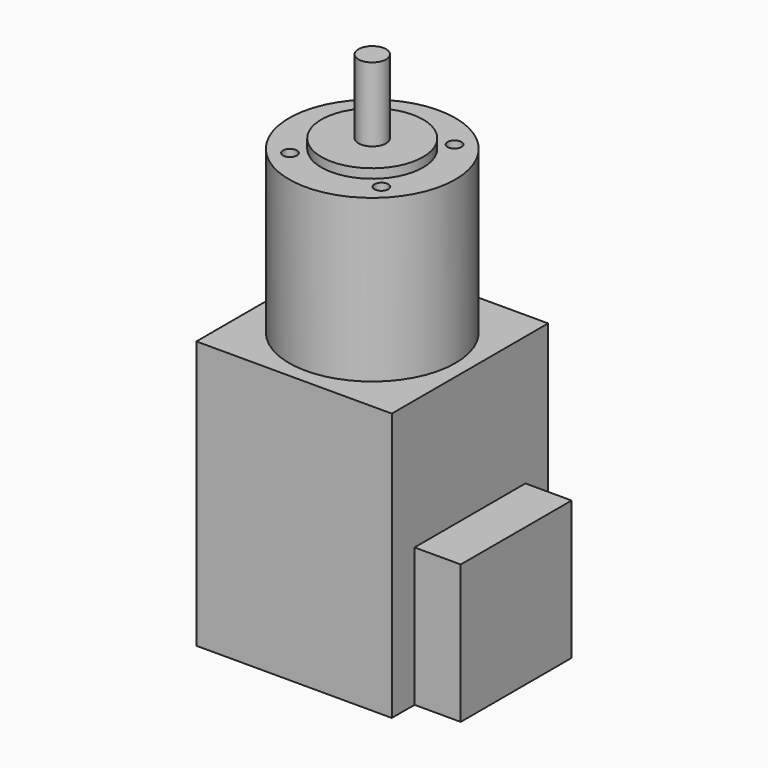
from build123d import *

# Parameters (mm, degrees)
SKETCH013_W     = 42.3
SKETCH013_H     = 42.3
PAD008_DEPTH    = 58
SKETCH012_R     = 18
PAD011_DEPTH    = 35
SKETCH011_R     = 3
PAD010_DEPTH    = 18
SKETCH010_R     = 11
PAD004_DEPTH    = 2
SKETCH009_R     = 1.5
POCKET001_DEPTH = 7
SKETCH006_W     = 30
SKETCH006_H     = 30
PAD009_DEPTH    = 10


with BuildPart() as part:
    # Sketch013 → Pad008 (new body)
    with BuildSketch(Plane.XY):
        Rectangle(SKETCH013_W, SKETCH013_H)
    extrude(amount=PAD008_DEPTH)

    # Sketch012 (on Face6 of Pad008) → Pad011 (join)
    with BuildSketch(Plane.XY.offset(58)):
        Circle(SKETCH012_R)
    extrude(amount=PAD011_DEPTH)

    # Sketch011 (on Face8 of Pad011) → Pad010 (join)
    with BuildSketch(Plane.XY.offset(93)):
        Circle(SKETCH011_R)
    extrude(amount=PAD010_DEPTH)

    # Sketch010 (on Face8 of Pad010) → Pad004 (join)
    with BuildSketch(Plane.XY.offset(93)):
        Circle(SKETCH010_R)
    extrude(amount=PAD004_DEPTH)

    # Sketch009 (on Face8 of Pad004) → Pocket001 (cut)
    with BuildSketch(Plane.XY.offset(93)):
        with Locations((-9.899495, 9.899495)):
            Circle(SKETCH009_R)
        with Locations((9.899495, 9.899495)):
            Circle(SKETCH009_R)
        with Locations((9.899495, -9.899495)):
            Circle(SKETCH009_R)
        with Locations((-9.899495, -9.899495)):
            Circle(SKETCH009_R)
    extrude(amount=-POCKET001_DEPTH, mode=Mode.SUBTRACT)

    # Sketch006 (on Face3 of Pocket001) → Pad009 (join)
    with BuildSketch(Plane.YZ.offset(21.15)):
        with Locations((0, 15)):
            Rectangle(SKETCH006_W, SKETCH006_H)
    extrude(amount=PAD009_DEPTH)


solid = part.part
